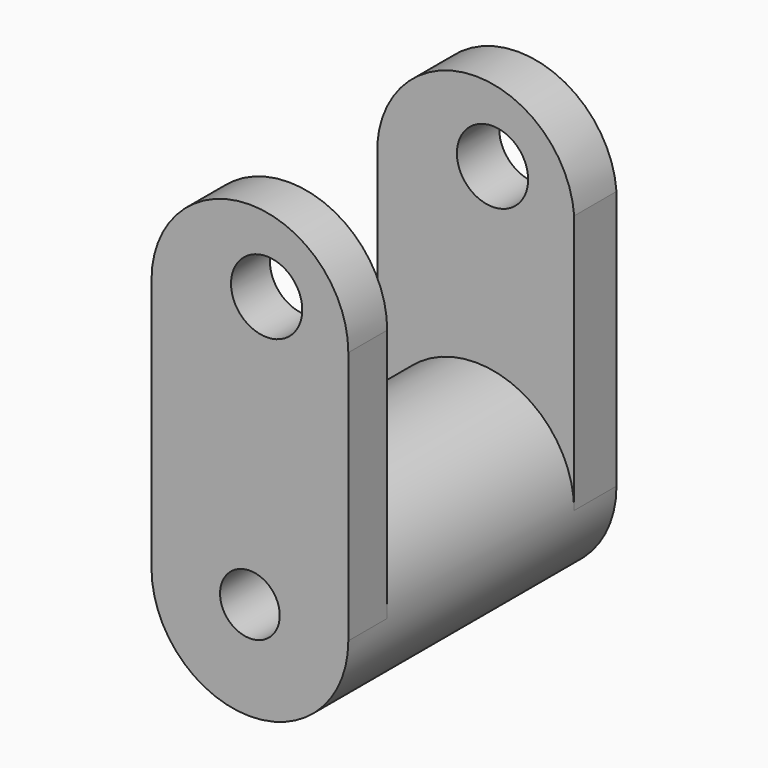
from build123d import *

# Parameters (mm, degrees)
F0_R     = 29.2989433696
F1_DEPTH = 99.822
F2_R     = 8.887223807
F3_DEPTH = 120.904
F5_DEPTH = 14.478
F7_DEPTH = 15.748
F8_R     = 10.6092029908
F9_DEPTH = 149.352


with BuildPart() as f1:
    # F0 (on Front) → F1 (new body)
    with BuildSketch(Plane.XZ):
        with Locations((-37.7041958272, 0)):
            Circle(F0_R)
    extrude(amount=F1_DEPTH)

    # F2 (on face) → F3 (cut)
    with BuildSketch(Plane.XZ.offset(99.822)):
        with Locations((-37.7041958272, 0)):
            Circle(F2_R)
    extrude(amount=-F3_DEPTH, mode=Mode.SUBTRACT)

    # F4 (on face) → F5 (join)
    with BuildSketch(Plane.XZ.offset(99.822)):
        with BuildLine():
            Line((-67.0031391968, 75.5516141653), (-67.0031391968, 0))
            ThreePointArc((-67.0031391968, 0), (-37.7041958272, 29.2989433696), (-8.4052524577, 0))
            Line((-8.4052524577, 0), (-8.4052524577, 75.5516141653))
            ThreePointArc((-8.4052524577, 75.5516141653), (-37.7041958272, 104.8505575349), (-67.0031391968, 75.5516141653))
        make_face()
    extrude(amount=-F5_DEPTH)

    # F6 (on face) → F7 (join)
    with BuildSketch(Plane(origin=(0, 0, 0), x_dir=(-1, 0, 0), z_dir=(0, 1, 0))):
        with BuildLine():
            Line((8.4052524577, 77.2385671735), (8.4052524577, 0))
            ThreePointArc((8.4052524577, 0), (37.7041958272, 29.2989433696), (67.0031391968, 0))
            Line((67.0031391968, 0), (67.0031391968, 77.2385671735))
            ThreePointArc((67.0031391968, 77.2385671735), (37.7041958272, 104.3438807805), (8.4052524577, 77.2385671735))
        make_face()
    extrude(amount=-F7_DEPTH)

    # F8 (on face) → F9 (cut)
    with BuildSketch(Plane(origin=(0, 0, 0), x_dir=(-1, 0, 0), z_dir=(0, 1, 0))):
        with Locations((32.7196232975, 82.2994410992)):
            Circle(F8_R)
    extrude(amount=-F9_DEPTH, mode=Mode.SUBTRACT)


solid = f1.part
